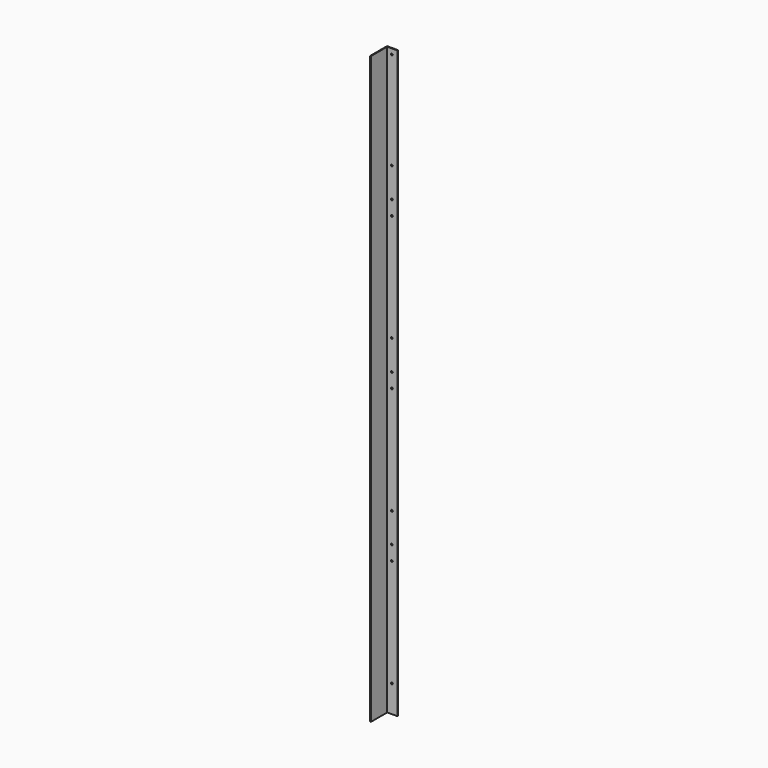
from build123d import *

# Parameters (mm, degrees)
F0_W     = 38.1
F0_H     = 74.6125
F1_DEPTH = 1028.7
F2_T     = -2.778125
F3_R     = 3.175
F4_DEPTH = 74.6135


with BuildPart() as f1:
    # F0 (on Top) → F1 (new body, symmetric)
    with BuildSketch(Plane.XY):
        with Locations((19.05, 37.30625)):
            Rectangle(F0_W, F0_H)
    extrude(amount=F1_DEPTH, both=True)

    # F2
    f2_openings = [f1.faces().sort_by_distance(p)[0] for p in [
        (38.1, 37.30625, 0),
        (19.05, 37.30625, 1028.7),
        (19.05, 0, 0),
        (19.05, 37.30625, -1028.7),
    ]]
    offset(amount=F2_T, openings=f2_openings)

    # F3 (on face) → F4 (cut, through all)
    with BuildSketch(Plane(origin=(0, 74.6125, 0), x_dir=(-1, 0, 0), z_dir=(0, 1, 0))):
        with Locations((-19.05, 561.975)):
            Circle(F3_R)
        with Locations((-19.05, 511.175)):
            Circle(F3_R)
        with Locations((-19.05, 133.35)):
            Circle(F3_R)
        with Locations((-19.05, -22.225)):
            Circle(F3_R)
        with Locations((-19.05, 28.575)):
            Circle(F3_R)
        with Locations((-19.05, -400.05)):
            Circle(F3_R)
        with Locations((-19.05, -555.625)):
            Circle(F3_R)
        with Locations((-19.05, -504.825)):
            Circle(F3_R)
        with Locations((-19.05, -933.45)):
            Circle(F3_R)
        with Locations((-19.05, 666.75)):
            Circle(F3_R)
        with Locations((-19.05, 1009.65)):
            Circle(F3_R)
    extrude(amount=-F4_DEPTH, mode=Mode.SUBTRACT)


solid = f1.part
